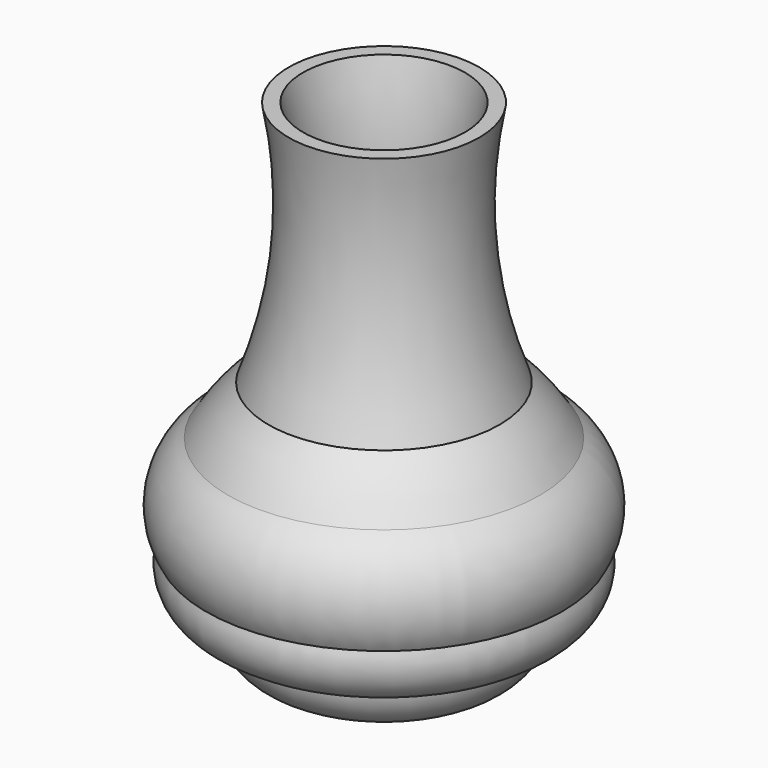
from build123d import *


with BuildPart() as f1:
    # F0 (on Front) → F1 (revolve)
    with BuildSketch(Plane.XZ):
        with BuildLine():
            Line((0, -45.538127), (0, -48.671935))
            Line((0, -48.671935), (8.617967, -48.671935))
            ThreePointArc((8.617967, -48.671935), (19.684223, -59.886057), (30.75048, -48.671935))
            ThreePointArc((30.75048, -48.671935), (39.61948, -44.996466), (41.327074, -35.549119))
            ThreePointArc((41.327074, -35.549119), (43.183076, -23.469965), (36.23464, -13.41661))
            ThreePointArc((36.23464, -13.41661), (31.937597, -7.402517), (26.833221, -2.056561))
            ThreePointArc((26.833221, -2.056561), (20.44547, 26.207584), (22.132508, 55.13541))
            Line((22.132508, 55.13541), (18.80284, 55.13541))
            ThreePointArc((18.80284, 55.13541), (16.661182, 24.204652), (25.266316, -5.582093))
            ThreePointArc((25.266316, -5.582093), (29.743678, -9.941227), (33.688422, -14.78765))
            ThreePointArc((33.688422, -14.78765), (40.606294, -23.480997), (37.605681, -34.178078))
            ThreePointArc((37.605681, -34.178078), (25.893257, -45.508515), (9.597282, -45.538127))
            Line((9.597282, -45.538127), (0, -45.538127))
        make_face()
    revolve(axis=Axis((0, 0, -47.105031), (0, 0, -1)))


solid = f1.part
